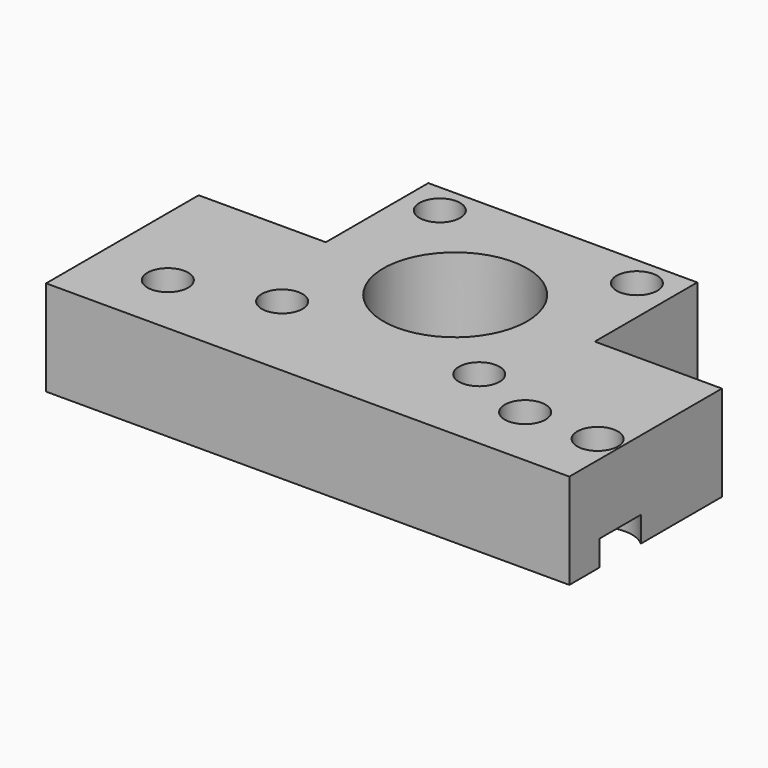
from build123d import *

# Parameters (mm, degrees)
SKETCH_R        = 11.3
SKETCH_R_2      = 1.6
SKETCH_R_3      = 3.2
PAD_DEPTH       = 15
SKETCH001_R     = 3.2
POCKET_DEPTH    = 4
SKETCH002_R     = 5.4
POCKET001_DEPTH = 4


with BuildPart() as part:
    # Sketch → Pad (new body)
    with BuildSketch(Plane.XY):
        Polygon((20, 30), (20, 50.15), (62.3, 50.15), (62.3, 30), (82.3, 30), (82.3, 0), (0, 0), (0, 30), align=None)
        with Locations((41.15, 29)):
            Circle(SKETCH_R, mode=Mode.SUBTRACT)
        with Locations((25.65, 44.5)):
            Circle(SKETCH_R_2, mode=Mode.SUBTRACT)
        with Locations((25.65, 13.5)):
            Circle(SKETCH_R_2, mode=Mode.SUBTRACT)
        with Locations((56.65, 44.5)):
            Circle(SKETCH_R_2, mode=Mode.SUBTRACT)
        with Locations((56.65, 13.5)):
            Circle(SKETCH_R_2, mode=Mode.SUBTRACT)
        with Locations((11.15, 10)):
            Circle(SKETCH_R_3, mode=Mode.SUBTRACT)
        with Locations((67.35, 10)):
            Circle(SKETCH_R_3, mode=Mode.SUBTRACT)
        with Locations((78.75, 10)):
            Circle(SKETCH_R_3, mode=Mode.SUBTRACT)
    extrude(amount=PAD_DEPTH)

    # Sketch001 (on Face18 of Pad) → Pocket (cut)
    with BuildSketch(Plane.XY.offset(15)):
        with Locations((25.65, 45.35)):
            Circle(SKETCH001_R)
        with Locations((56.65, 45.35)):
            Circle(SKETCH001_R)
        with Locations((56.65, 14.35)):
            Circle(SKETCH001_R)
        with Locations((25.65, 14.35)):
            Circle(SKETCH001_R)
    extrude(amount=-POCKET_DEPTH, mode=Mode.SUBTRACT)

    # Sketch002 (on Face4 of Pocket) → Pocket001 (cut)
    with BuildSketch(Plane(origin=(0, 0, 0), x_dir=(1, 0, 0), z_dir=(0, 0, -1))):
        with Locations((11.15, -10)):
            Circle(SKETCH002_R)
        with Locations((67.35, -10)):
            Circle(SKETCH002_R)
        with Locations((78.75, -10)):
            Circle(SKETCH002_R)
    extrude(amount=-POCKET001_DEPTH, mode=Mode.SUBTRACT)


solid = part.part
